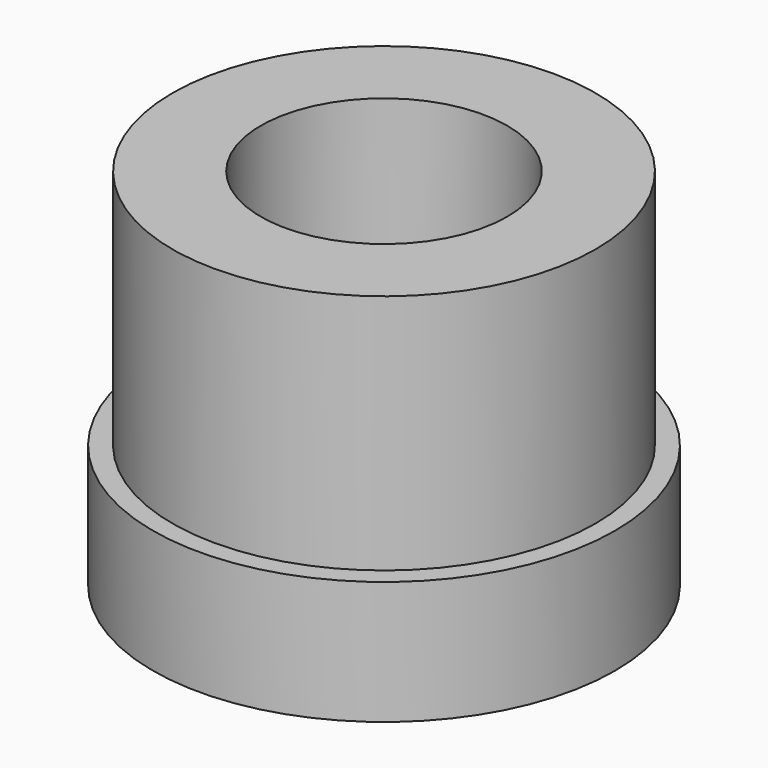
from build123d import *

# Parameters (mm, degrees)
SKETCH_R      = 11.25
SKETCH_R_2    = 6.5
PAD_DEPTH     = 6
SKETCH001_R   = 10.3
SKETCH001_R_2 = 6
PAD001_DEPTH  = 11.75


with BuildPart() as part:
    # Sketch → Pad (new body)
    with BuildSketch(Plane.XY):
        Circle(SKETCH_R)
        Circle(SKETCH_R_2, mode=Mode.SUBTRACT)
    extrude(amount=PAD_DEPTH)

    # Sketch001 (on Face4 of Pad) → Pad001 (join)
    with BuildSketch(Plane.XY.offset(6)):
        Circle(SKETCH001_R)
        Circle(SKETCH001_R_2, mode=Mode.SUBTRACT)
    extrude(amount=PAD001_DEPTH)


solid = part.part
